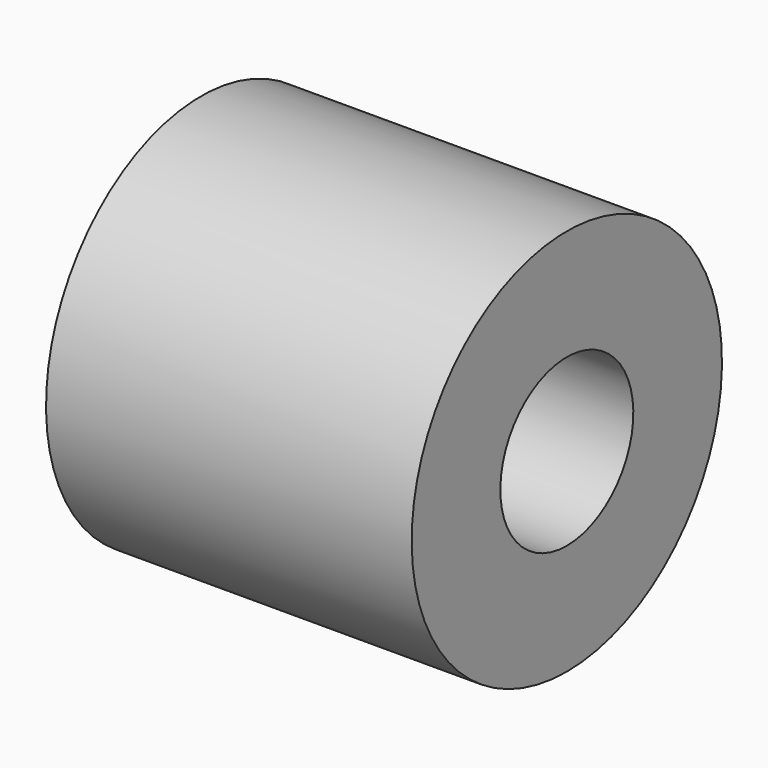
from build123d import *

# Parameters (mm, degrees)
CYLINDER178_R     = 1.5
CYLINDER178_DEPTH = 55
CYLINDER172_R     = 3.5
CYLINDER172_DEPTH = 6.6


with BuildPart() as cylinder178:
    # Cylinder178 → Cylinder178 (new body)
    with BuildSketch(Plane(origin=(92.7, 68.9, 48.1), x_dir=(0, 0, -1), z_dir=(1, 0, 0))):
        Circle(CYLINDER178_R)
    extrude(amount=CYLINDER178_DEPTH)


with BuildPart() as cut210:
    # Cylinder172 → Cylinder172 (new body)
    with BuildSketch(Plane(origin=(99.1, 68.9, 48.1), x_dir=(0, 0, -1), z_dir=(1, 0, 0))):
        Circle(CYLINDER172_R)
    extrude(amount=CYLINDER172_DEPTH)

    # Cut210: cut Cylinder178
    add(cylinder178.part, mode=Mode.SUBTRACT)


solid = cut210.part
